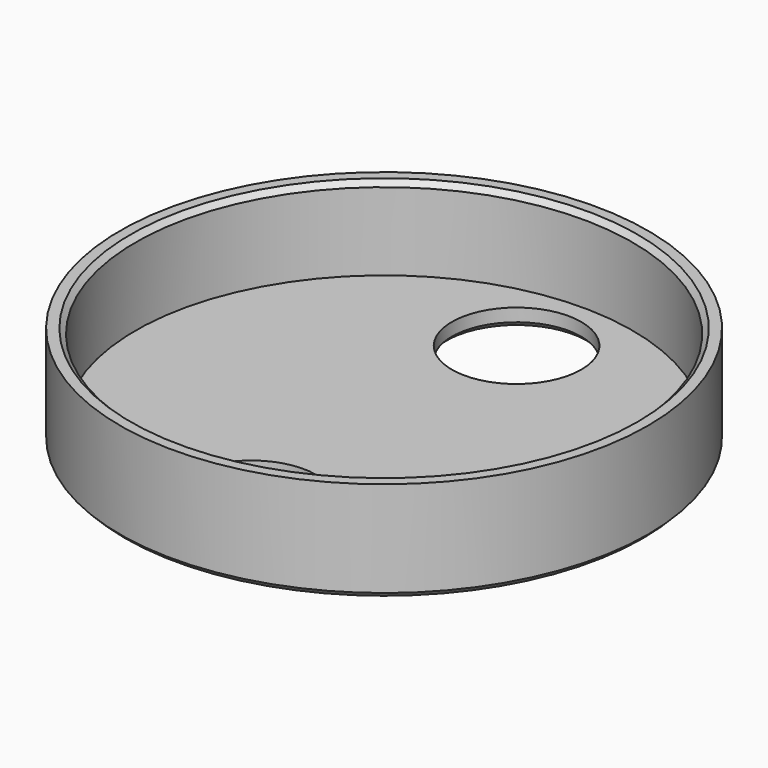
from build123d import *

# Parameters (mm, degrees)
F0_R     = 51
F1_DEPTH = 3.5
F2_R     = 51
F2_R_2   = 48
F3_DEPTH = 16
F4_R     = 12.5
F5_DEPTH = 25
F6_SIZE  = 1
F7_SIZE  = 1


with BuildPart() as f1:
    # F0 (on Top) → F1 (new body)
    with BuildSketch(Plane.XY):
        Circle(F0_R)
    extrude(amount=F1_DEPTH)

    # F2 (on face) → F3 (join)
    with BuildSketch(Plane.XY.offset(3.5)):
        Circle(F2_R)
        Circle(F2_R_2, mode=Mode.SUBTRACT)
    extrude(amount=F3_DEPTH)

    # F4 (on face) → F5 (cut)
    with BuildSketch(Plane(origin=(0, 0, 0), x_dir=(1, 0, 0), z_dir=(0, 0, -1))):
        with Locations((0, 32)):
            Circle(F4_R)
        with Locations((0, -32)):
            Circle(F4_R)
    extrude(amount=-F5_DEPTH, mode=Mode.SUBTRACT)

    # F6
    f6_edges = [f1.edges().sort_by_distance(p)[0] for p in [
        (-51, 0, 0),
        (-12.5, 32, 0),
        (-12.5, -32, 0),
    ]]
    chamfer(f6_edges, length=F6_SIZE)

    # F7
    f7_edges = [f1.edges().sort_by_distance(p)[0] for p in [
        (-48, 0, 19.5),
    ]]
    chamfer(f7_edges, length=F7_SIZE)


solid = f1.part
